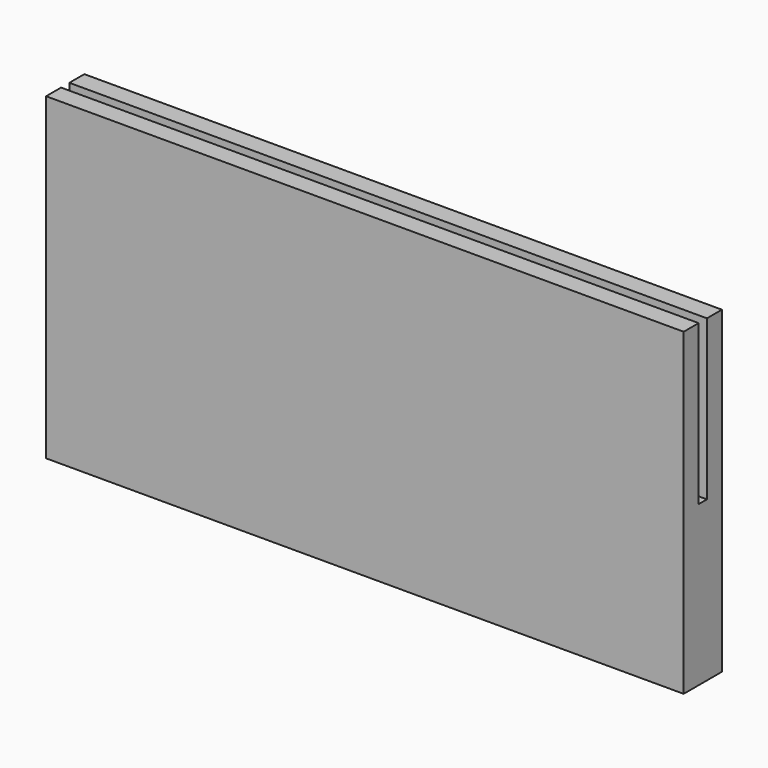
from build123d import *

# Parameters (mm, degrees)
F0_W     = 40
F0_H     = 1.175
F0_H_2   = 0.65
F1_DEPTH = 20
F2_DEPTH = 10


with BuildPart() as f1:
    # F0 (on Top) → F1 (new body)
    with BuildSketch(Plane.XY):
        with Locations((0, -0.9125)):
            Rectangle(F0_W, F0_H)
        Rectangle(F0_W, F0_H_2)
        with Locations((0, 0.9125)):
            Rectangle(F0_W, F0_H)
    extrude(amount=-F1_DEPTH)

    # F0 (on Top) → F2 (cut)
    with BuildSketch(Plane.XY):
        Rectangle(F0_W, F0_H_2)
    extrude(amount=-F2_DEPTH, mode=Mode.SUBTRACT)


solid = f1.part
